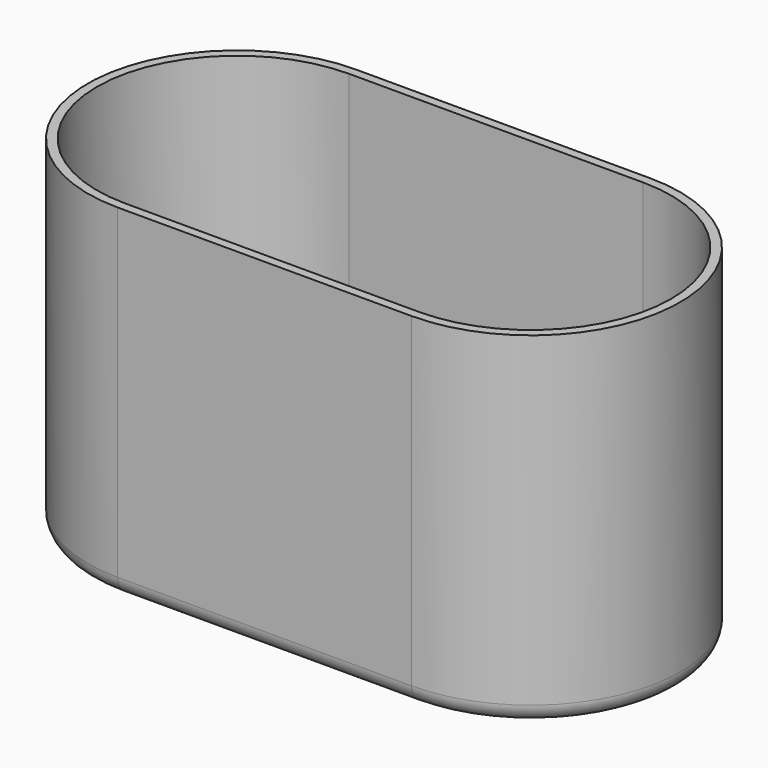
from build123d import *

# Parameters (mm, degrees)
PAD002_DEPTH = 38
THICKNESS_T  = -1
FILLET002_R  = 10
FILLET003_R  = 2


with BuildPart() as part:
    # Sketch007 → Pad002 (new body)
    with BuildSketch(Plane.XY):
        with BuildLine():
            ThreePointArc((-83, 72.5), (-99.5, 56), (-83, 39.5))
            Line((-83, 39.5), (-50.5, 39.5))
            ThreePointArc((-50.5, 39.5), (-34, 56), (-50.5, 72.5))
            Line((-50.5, 72.5), (-83, 72.5))
        make_face()
    extrude(amount=PAD002_DEPTH)

    # Thickness
    thickness_openings = [part.faces().sort_by_distance(p)[0] for p in [
        (-66.75, 56, 38),
    ]]
    offset(amount=THICKNESS_T, openings=thickness_openings)

    # Fillet002
    fillet002_edges = [part.edges().sort_by_distance(p)[0] for p in [
        (-98.5, 56, 1),
        (-66.75, 40.5, 1),
        (-35, 56, 1),
        (-66.75, 71.5, 1),
    ]]
    fillet(fillet002_edges, radius=FILLET002_R)

    # Fillet003
    fillet003_edges = [part.edges().sort_by_distance(p)[0] for p in [
        (-99.5, 56, 0),
        (-66.75, 39.5, 0),
        (-34, 56, 0),
        (-66.75, 72.5, 0),
    ]]
    fillet(fillet003_edges, radius=FILLET003_R)


with BuildPart() as part_1:
    # Body002 placement: moved
    add(part.part.moved(Location((233, -173, 46))))


solid = part_1.part
